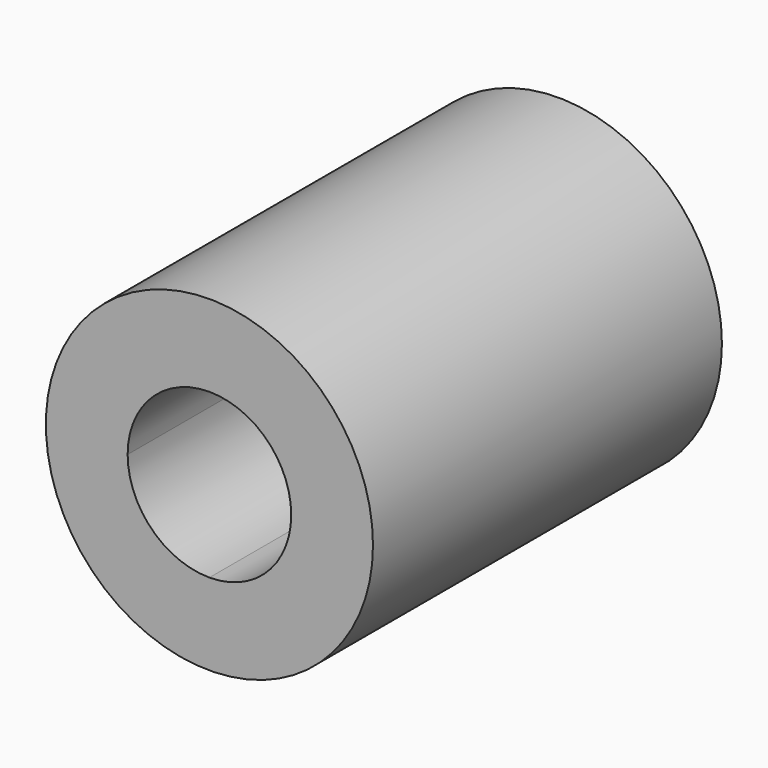
from build123d import *

# Parameters (mm, degrees)
F0_R     = 9.525
F1_DEPTH = 25.4
F3_DEPTH = 25.401
F4_W     = 9.525
F4_H     = 9.723438
F5_DEPTH = 11.0998


with BuildPart() as f1:
    # F0 (on Front) → F1 (new body)
    with BuildSketch(Plane.XZ):
        Circle(F0_R)
    extrude(amount=F1_DEPTH)

    # F2 (on Front) → F3 (cut, through all)
    with BuildSketch(Plane.XZ):
        with BuildLine():
            ThreePointArc((4.7625, 0), (3.367596, 3.367596), (0, 4.7625))
            ThreePointArc((0, 4.7625), (-3.367596, 3.367596), (-4.7625, 0))
            ThreePointArc((-4.7625, 0), (-3.367596, -3.367596), (0, -4.7625))
            ThreePointArc((0, -4.7625), (3.367596, -3.367596), (4.7625, 0))
        make_face()
    extrude(amount=F3_DEPTH, mode=Mode.SUBTRACT)

    # F4 (on Front) → F5 (cut)
    with BuildSketch(Plane.XZ):
        Rectangle(F4_W, F4_H)
    extrude(amount=F5_DEPTH, mode=Mode.SUBTRACT)


solid = f1.part
